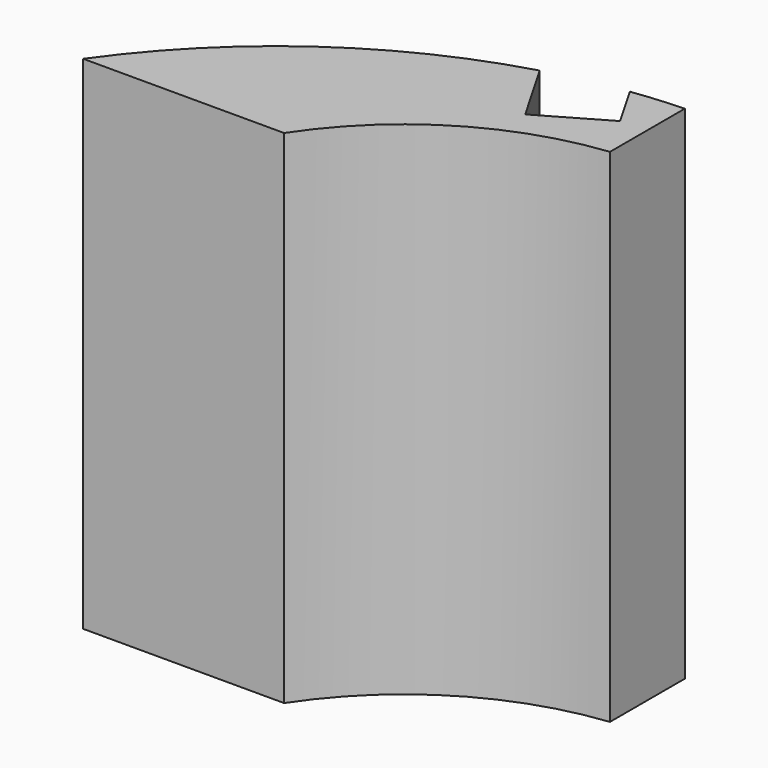
from build123d import *

# Parameters (mm, degrees)
F1_DEPTH = 37.5


with BuildPart() as f1:
    # F0 (on Top) → F1 (new body, symmetric)
    with BuildSketch(Plane.XY):
        with BuildLine():
            Line((31.333245, 3.038192), (31.333245, 17.012404))
            ThreePointArc((31.333245, 17.012404), (27.477213, 16.783619), (23.63672, 16.368966))
            Line((23.63672, 16.368966), (27.400446, 9.85))
            Line((27.400446, 9.85), (26.101409, 9.1))
            Line((26.101409, 9.1), (18.999999, 5))
            Line((18.999999, 5), (17.700962, 4.25))
            Line((17.700962, 4.25), (12.093028, 13.963227))
            ThreePointArc((12.093028, 13.963227), (-12.287424, 2.210049), (-31.35356, -17.000001))
            Line((-31.35356, -17.000001), (-1.332891, -17.000001))
            ThreePointArc((-1.332891, -17.000001), (12.760499, -3.329794), (31.333245, 3.038192))
        make_face()
    extrude(amount=F1_DEPTH, both=True)


solid = f1.part
